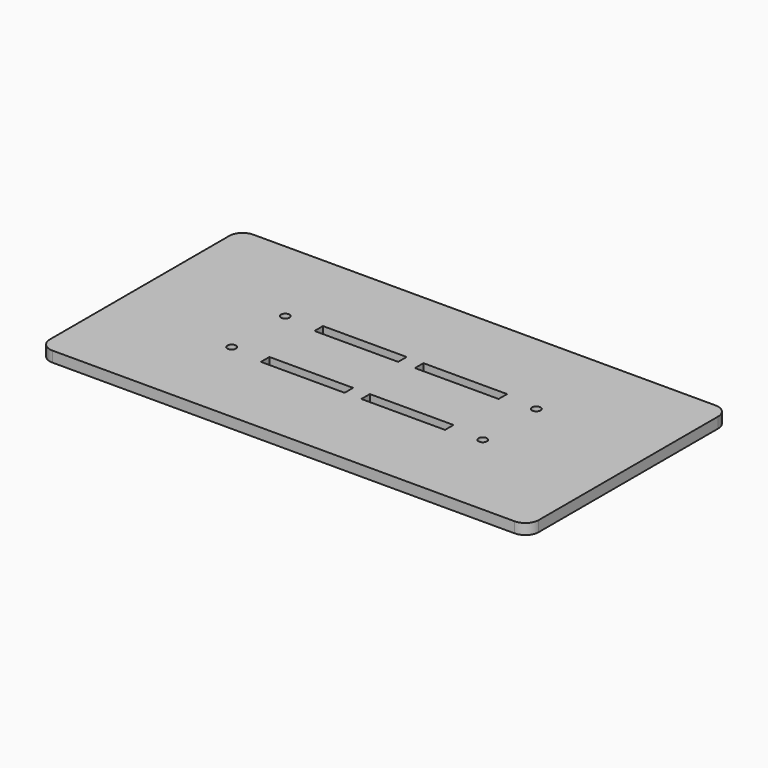
from build123d import *

# Parameters (mm, degrees)
F0_R     = 2.55
F0_W     = 50
F0_H     = 6.35
F1_DEPTH = 6.35


with BuildPart() as f1:
    # F0 (on Top) → F1 (new body)
    with BuildSketch(Plane.XY):
        with BuildLine():
            ThreePointArc((146.05, 67), (143.706854, 72.656854), (138.05, 75))
            Line((138.05, 75), (-138.05, 75))
            ThreePointArc((-138.05, 75), (-143.706854, 72.656854), (-146.05, 67))
            Line((-146.05, 67), (-146.05, -67))
            ThreePointArc((-146.05, -67), (-143.706854, -72.656854), (-138.05, -75))
            Line((-138.05, -75), (138.05, -75))
            ThreePointArc((138.05, -75), (143.706854, -72.656854), (146.05, -67))
            Line((146.05, -67), (146.05, 67))
        make_face()
        with Locations((-75, -20)):
            Circle(F0_R, mode=Mode.SUBTRACT)
        with Locations((-30, -20)):
            Rectangle(F0_W, F0_H, mode=Mode.SUBTRACT)
        with Locations((30, -20)):
            Rectangle(F0_W, F0_H, mode=Mode.SUBTRACT)
        with Locations((75, -20)):
            Circle(F0_R, mode=Mode.SUBTRACT)
        with Locations((-75, 20)):
            Circle(F0_R, mode=Mode.SUBTRACT)
        with Locations((-30, 20)):
            Rectangle(F0_W, F0_H, mode=Mode.SUBTRACT)
        with Locations((30, 20)):
            Rectangle(F0_W, F0_H, mode=Mode.SUBTRACT)
        with Locations((75, 20)):
            Circle(F0_R, mode=Mode.SUBTRACT)
    extrude(amount=F1_DEPTH)


solid = f1.part
